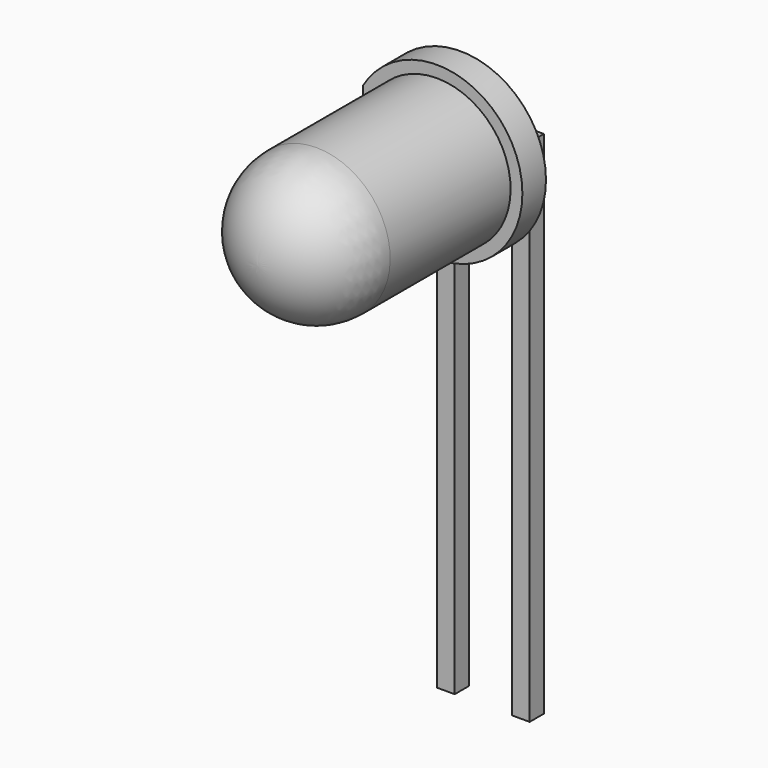
from build123d import *

# Parameters (mm, degrees)
SKETCH_W       = 0.6
SKETCH_H       = 0.6
PAD_DEPTH      = 14.7
PAD_DEPTH_BACK = 2
PAD001_DEPTH   = 0.6
SKETCH002_W    = 2.54
SKETCH002_H    = 0.6
PAD002_DEPTH   = 1
SKETCH004_R    = 2.9
SKETCH004_R_2  = 2.5
PAD003_DEPTH   = 1
SKETCH006_W    = 0.4
SKETCH006_H    = 5.8
POCKET_DEPTH   = 1.001


with BuildPart() as pad:
    # Sketch → Pad (new body, two sides)
    with BuildSketch(Plane.XY) as pad_sk:
        Rectangle(SKETCH_W, SKETCH_H)
        with Locations((2.54, 0)):
            Rectangle(SKETCH_W, SKETCH_H)
    extrude(amount=PAD_DEPTH)
    extrude(pad_sk.sketch, amount=-PAD_DEPTH_BACK)


with BuildPart() as pad001:
    # Sketch001 → Pad001 (new body)
    with BuildSketch(Plane.XY.offset(14.7)):
        Polygon((0.3, 0.3), (-0.3, 0.3), (-0.3, -0.3), (0, -1.77), (0.6, -1.77), (0.3, -0.3), align=None)
        Polygon((2.84, 0.3), (2.24, 0.3), (2.24, -0.3), (1.94, -1.77), (2.54, -1.77), (2.84, -0.3), align=None)
    extrude(amount=PAD001_DEPTH)


with BuildPart() as pad002:
    # Sketch002 → Pad002 (new body)
    with BuildSketch(Plane.XZ.offset(1.77)):
        with Locations((1.27, 15)):
            Rectangle(SKETCH002_W, SKETCH002_H)
    extrude(amount=PAD002_DEPTH)


with BuildPart() as revolution:
    # Sketch003 → Revolution (revolve)
    with BuildSketch(Plane.YZ.offset(1.27)):
        with BuildLine():
            Line((-1.27, 15), (-9.87, 15))
            ThreePointArc((-7.37, 17.5), (-9.137767, 16.767767), (-9.87, 15))
            Line((-1.27, 17.5), (-7.37, 17.5))
            Line((-1.27, 15), (-1.27, 17.5))
        make_face()
    revolve(axis=Axis((1.27, -5.810397, 15), (0, -1, 0)))


with BuildPart() as revolution001:
    # Sketch005 → Revolution001 (revolve)
    with BuildSketch(Plane.YZ.offset(1.27)):
        Polygon((-2.47, 15), (-2.97, 15), (-2.97, 15.5), align=None)
    revolve(axis=Axis((1.27, -3.977201, 15), (0, -1, 0)))


with BuildPart() as pocket:
    # Sketch004 → Pad003 (new body)
    with BuildSketch(Plane.XZ.offset(1.27)):
        with Locations((1.27, 15)):
            Circle(SKETCH004_R)
        with Locations((1.27, 15)):
            Circle(SKETCH004_R_2, mode=Mode.SUBTRACT)
    extrude(amount=PAD003_DEPTH)

    # Sketch006 → Pocket (cut, through all)
    with BuildSketch(Plane.XZ.offset(2.27)):
        with Locations((-1.43, 15)):
            Rectangle(SKETCH006_W, SKETCH006_H)
    extrude(amount=-POCKET_DEPTH, mode=Mode.SUBTRACT)


solid = Compound([pad.part, pad001.part, pad002.part, revolution.part, revolution001.part, pocket.part])
